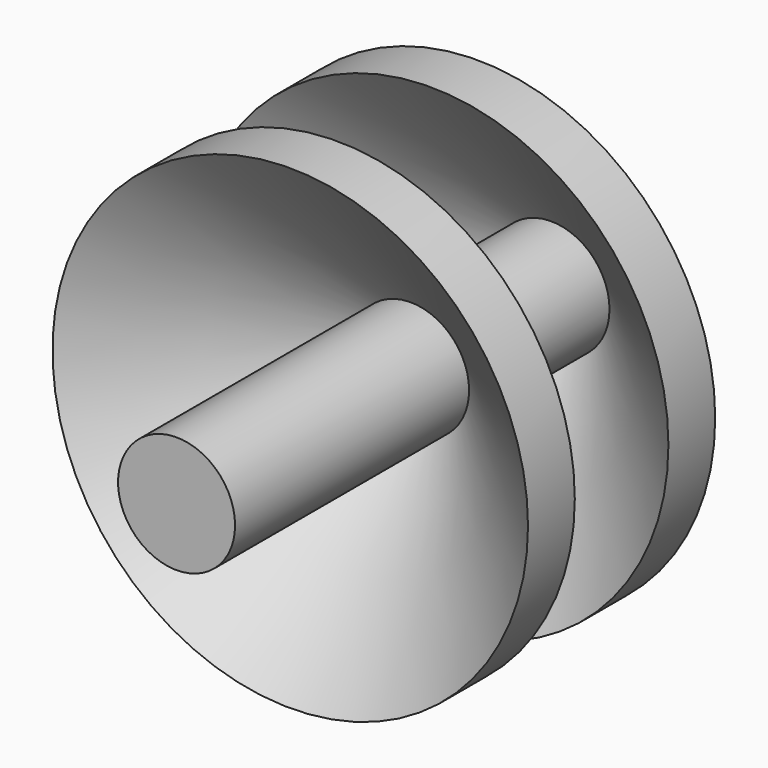
from build123d import *


with BuildPart() as f1:
    # F0 (on Top) → F1 (revolve)
    with BuildSketch(Plane.XY):
        Polygon((4, 0), (0, 0), (0, -36), (4, -36), (4, -16), (16.256711, -26.284602), (16.256711, -22.284602), (4, -12), (4, -4), (16.256711, -14.284602), (16.256711, -10.284602), align=None)
    revolve(axis=Axis((0, -18, 0), (0, -1, 0)))


solid = f1.part
